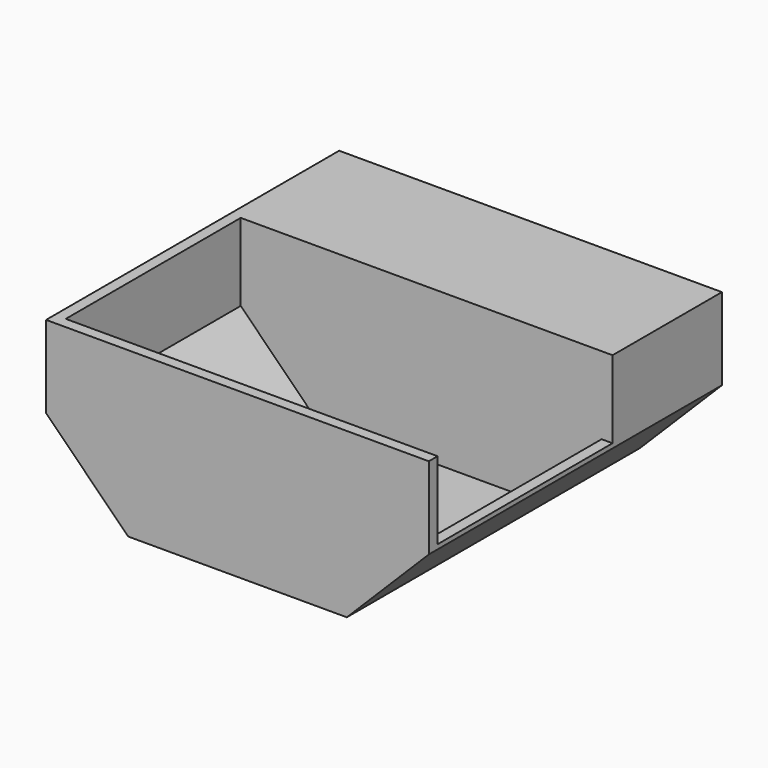
from build123d import *

# Parameters (mm, degrees)
F1_DEPTH = 2
F3_DEPTH = 40
F5_DEPTH = 25


with BuildPart() as f1:
    # F0 (on Front) → F1 (new body)
    with BuildSketch(Plane.XZ):
        Polygon((35, -15), (35, 0), (-35, 0), (-35, -15), (-20, -30), (20, -30), align=None)
    extrude(amount=F1_DEPTH)

    # F2 (on face) → F3 (join)
    with BuildSketch(Plane(origin=(0, 0, 0), x_dir=(-1, 0, 0), z_dir=(0, 1, 0))):
        Polygon((33, -14.1715728753), (19.1715728753, -28), (-19.1715728753, -28), (-33, -14.1715728753), (-35, -14.1715728753), (-35, -15), (-20, -30), (20, -30), (35, -15), (35, 0), (33, 0), (33, -2), align=None)
    extrude(amount=F3_DEPTH)

    # F4 (on face) → F5 (join)
    with BuildSketch(Plane(origin=(0, 40, 0), x_dir=(-1, 0, 0), z_dir=(0, 1, 0))):
        Polygon((-19.1715728753, -28), (19.1715728753, -28), (33, -14.1715728753), (33, 0), (-35, 0), (-35, -14.1715728753), (-33, -14.1715728753), align=None)
        Polygon((33, -14.1715728753), (19.1715728753, -28), (-19.1715728753, -28), (-33, -14.1715728753), (-35, -14.1715728753), (-35, -15), (-20, -30), (20, -30), (35, -15), (35, 0), (33, 0), align=None)
    extrude(amount=F5_DEPTH)


solid = f1.part
